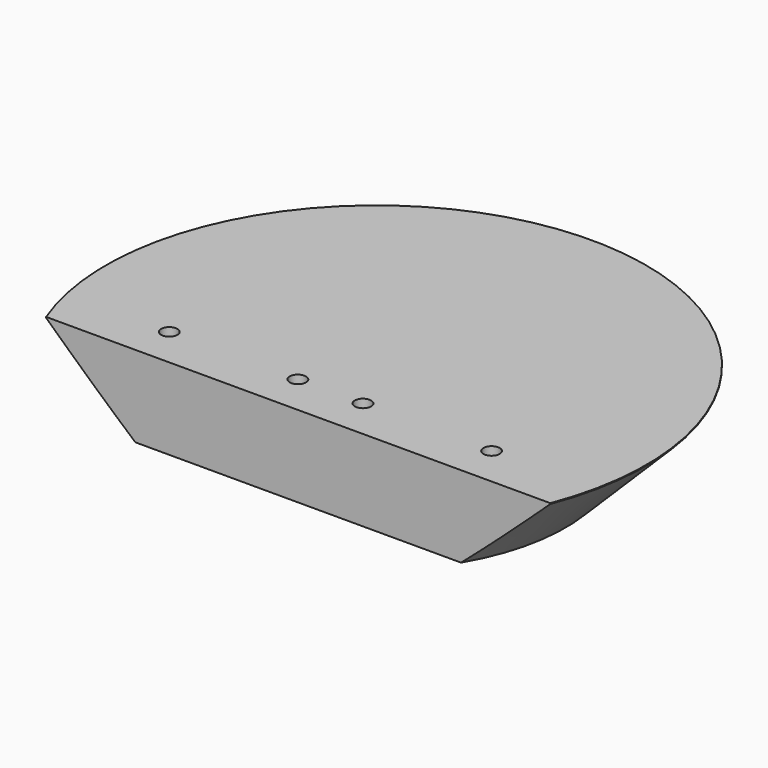
from build123d import *

# Parameters (mm, degrees)
PAD_DEPTH       = 10
SKETCH005_R     = 1
POCKET001_DEPTH = 10.001
CHAMFER_SIZE    = 9.9


with BuildPart() as part:
    # Sketch → Pad (new body)
    with BuildSketch(Plane.XY):
        with BuildLine():
            ThreePointArc((30.974788, -11.95), (0, 33.2), (-30.974788, -11.95))
            Line((-30.974788, -11.95), (30.974788, -11.95))
        make_face()
    extrude(amount=PAD_DEPTH)

    # Sketch005 (on Face4 of Pad) → Pocket001 (cut, through all)
    with BuildSketch(Plane.XY.offset(10)):
        with Locations((4, -7)):
            Circle(SKETCH005_R)
        with Locations((19.8, -7)):
            Circle(SKETCH005_R)
        with Locations((-4, -7)):
            Circle(SKETCH005_R)
        with Locations((-19.8, -7)):
            Circle(SKETCH005_R)
    extrude(amount=-POCKET001_DEPTH, mode=Mode.SUBTRACT)

    # Chamfer
    chamfer_edges = [part.edges().sort_by_distance(p)[0] for p in [
        (0, 33.2, 0),
    ]]
    chamfer(chamfer_edges, length=CHAMFER_SIZE)


solid = part.part
